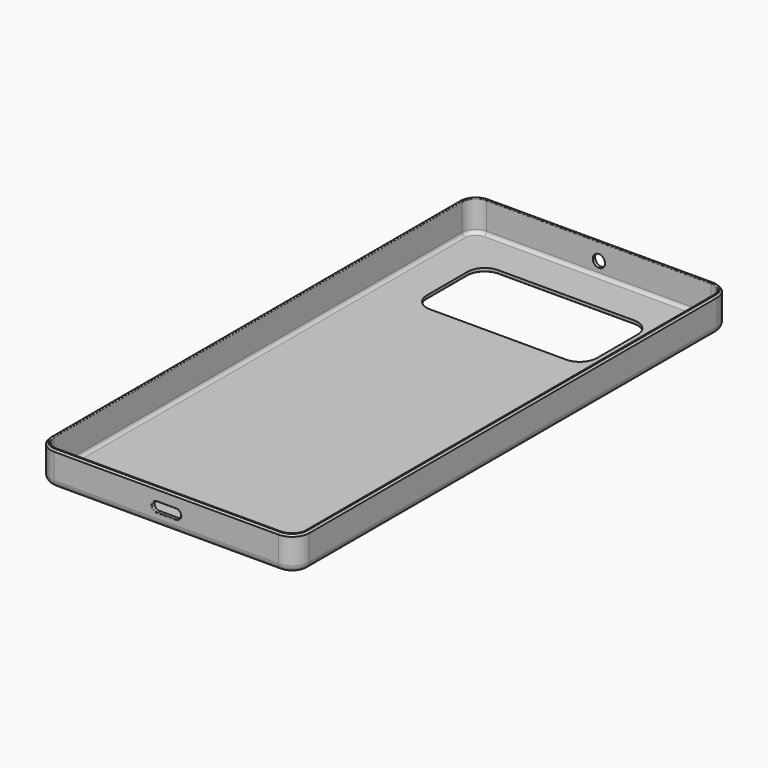
from build123d import *

# Parameters (mm, degrees)
F1_DEPTH  = 10
F2_R      = 2
F3_T      = -1
F4_SIZE   = 0.5
F6_DEPTH  = 10.001
F8_DEPTH  = 80.001
F9_R      = 1.8
F10_DEPTH = 80.001
F11_R     = 0.2


with BuildPart() as f1:
    # F0 (on Top) → F1 (new body)
    with BuildSketch(Plane.XY):
        with BuildLine():
            Line((33, 80), (-33, 80))
            ThreePointArc((-33, 80), (-36.5355339059, 78.5355339059), (-38, 75))
            Line((-38, 75), (-38, -75))
            ThreePointArc((-38, -75), (-36.5355339059, -78.5355339059), (-33, -80))
            Line((-33, -80), (33, -80))
            ThreePointArc((33, -80), (36.5355339059, -78.5355339059), (38, -75))
            Line((38, -75), (38, 75))
            ThreePointArc((38, 75), (36.5355339059, 78.5355339059), (33, 80))
        make_face()
    extrude(amount=-F1_DEPTH)

    # F2
    f2_edges = [f1.edges().sort_by_distance(p)[0] for p in [
        (0, 80, -10),
    ]]
    fillet(f2_edges, radius=F2_R)

    # F3
    f3_openings = [f1.faces().sort_by_distance(p)[0] for p in [
        (0, 0, 0),
    ]]
    offset(amount=F3_T, openings=f3_openings)

    # F4
    f4_edges = [f1.edges().sort_by_distance(p)[0] for p in [
        (-36.535534, -78.535534, 0),
    ]]
    chamfer(f4_edges, length=F4_SIZE)

    # F5 (on Top) → F6 (cut, through all)
    with BuildSketch(Plane.XY):
        with BuildLine():
            Line((-20, 42), (20, 42))
            ThreePointArc((20, 42), (23.5355339059, 43.4644660941), (25, 47))
            Line((25, 47), (25, 62))
            ThreePointArc((25, 62), (23.5355339059, 65.5355339059), (20, 67))
            Line((20, 67), (-20, 67))
            ThreePointArc((-20, 67), (-23.5355339059, 65.5355339059), (-25, 62))
            Line((-25, 62), (-25, 47))
            ThreePointArc((-25, 47), (-23.5355339059, 43.4644660941), (-20, 42))
        make_face()
    extrude(amount=-F6_DEPTH, mode=Mode.SUBTRACT)

    # F7 (on Front) → F8 (cut, through all)
    with BuildSketch(Plane.XZ):
        with BuildLine():
            Line((2.85, -3.6), (-2.85, -3.6))
            ThreePointArc((-2.85, -3.6), (-4.25, -5), (-2.85, -6.4))
            Line((-2.85, -6.4), (2.85, -6.4))
            ThreePointArc((2.85, -6.4), (4.25, -5), (2.85, -3.6))
        make_face()
    extrude(amount=F8_DEPTH, mode=Mode.SUBTRACT)

    # F9 (on Front) → F10 (cut, through all)
    with BuildSketch(Plane.XZ):
        with Locations((0, -5)):
            Circle(F9_R)
    extrude(amount=-F10_DEPTH, mode=Mode.SUBTRACT)

    # F11
    f11_edges = [f1.edges().sort_by_distance(p)[0] for p in [
        (0, 79, 0),
        (0, 67, -10),
        (0, -80, -6.4),
        (-1.8, 80, -5),
    ]]
    fillet(f11_edges, radius=F11_R)


solid = f1.part
